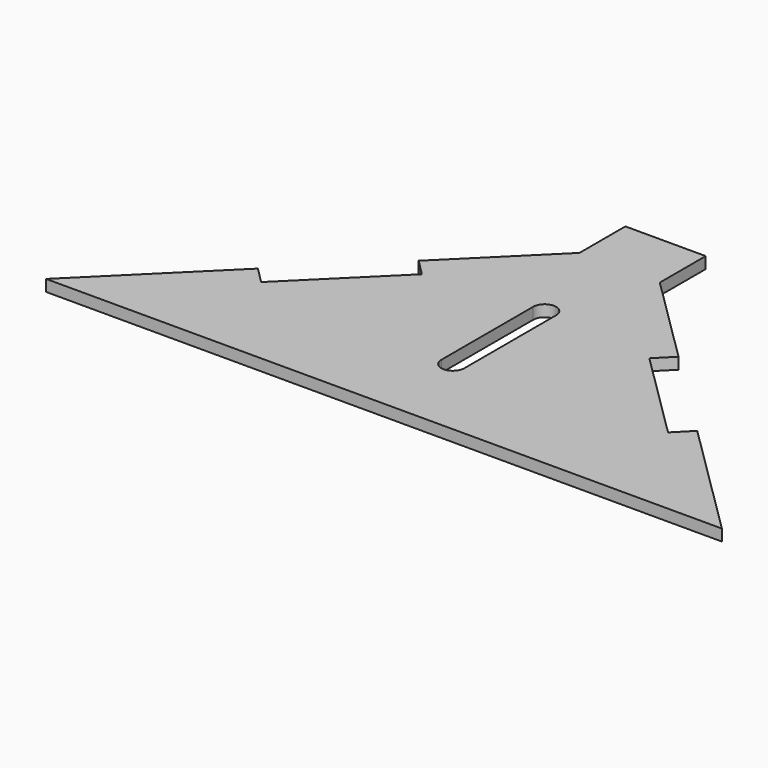
from build123d import *

# Parameters (mm, degrees)
F1_DEPTH = 2


with BuildPart() as f1:
    # F0 (on Top) → F1 (new body)
    with BuildSketch(Plane.XY):
        Polygon((-24.640209, 27.888809), (-21.827112, 25.045134), (-37.467321, 9.5731), (-40.280418, 12.416774), (-60.897057, -7.978181), (56.897057, -7.978181), (36.280418, 12.416774), (33.467321, 9.5731), (17.827112, 25.045134), (20.640209, 27.888809), (5, 43.360843), (5, 53.360843), (-9, 53.360843), (-9, 43.360843), align=None)
        with BuildLine():
            Line((0, 27.021819), (0, 7.021819))
            ThreePointArc((0, 7.021819), (-2, 5.021819), (-4, 7.021819))
            Line((-4, 7.021819), (-4, 27.021819))
            ThreePointArc((-4, 27.021819), (-2, 29.021819), (0, 27.021819))
        make_face(mode=Mode.SUBTRACT)
    extrude(amount=F1_DEPTH)


solid = f1.part
